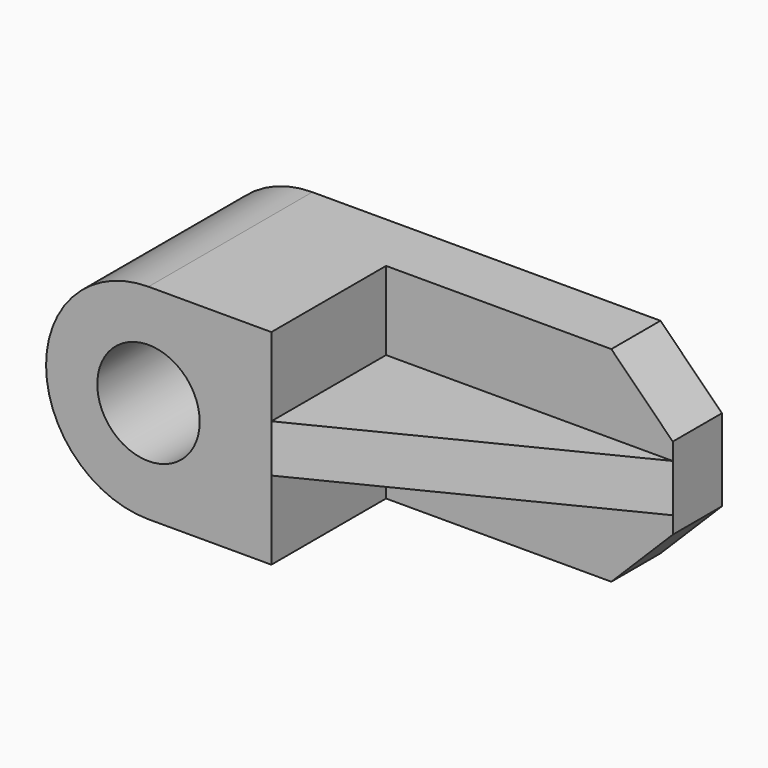
from build123d import *

# Parameters (mm, degrees)
F1_DEPTH  = 762
F2_W      = 1066.8
F2_H      = 762
F3_DEPTH  = 533.4
F5_DEPTH  = 228.6
F6_W      = 1066.8
F6_H      = 177.8
F7_DEPTH  = 533.4
F9_DEPTH  = 254
F10_R     = 190.5
F11_DEPTH = 762


with BuildPart() as f1:
    # F0 (on Front) → F1 (new body)
    with BuildSketch(Plane.XZ):
        with BuildLine():
            Line((1524, 762), (0, 762))
            ThreePointArc((0, 762), (-381, 381), (0, 0))
            Line((0, 0), (1524, 0))
            Line((1524, 0), (1524, 762))
        make_face()
    extrude(amount=F1_DEPTH)

    # F2 (on face) → F3 (cut)
    with BuildSketch(Plane.XZ.offset(762)):
        with Locations((990.6, 381)):
            Rectangle(F2_W, F2_H)
    extrude(amount=-F3_DEPTH, mode=Mode.SUBTRACT)

    # F4 (on face) → F5 (cut)
    with BuildSketch(Plane.XZ.offset(228.6)):
        Polygon((1295.4, 0), (1524, 0), (1524, 228.6), align=None)
        Polygon((1295.4, 762), (1524, 533.4), (1524, 762), align=None)
    extrude(amount=-F5_DEPTH, mode=Mode.SUBTRACT)

    # F6 (on face) → F7 (join)
    with BuildSketch(Plane.XZ.offset(228.6)):
        with Locations((990.6, 381)):
            Rectangle(F6_W, F6_H)
    extrude(amount=F7_DEPTH)

    # F8 (on face) → F9 (cut)
    with BuildSketch(Plane(origin=(0, 0, 292.1), x_dir=(1, 0, 0), z_dir=(0, 0, -1))):
        Polygon((1524, 762), (457.2, 762), (1524, 228.6), align=None)
    extrude(amount=-F9_DEPTH, mode=Mode.SUBTRACT)

    # F10 (on face) → F11 (cut)
    with BuildSketch(Plane.XZ.offset(762)):
        with Locations((0, 381)):
            Circle(F10_R)
    extrude(amount=-F11_DEPTH, mode=Mode.SUBTRACT)


solid = f1.part
